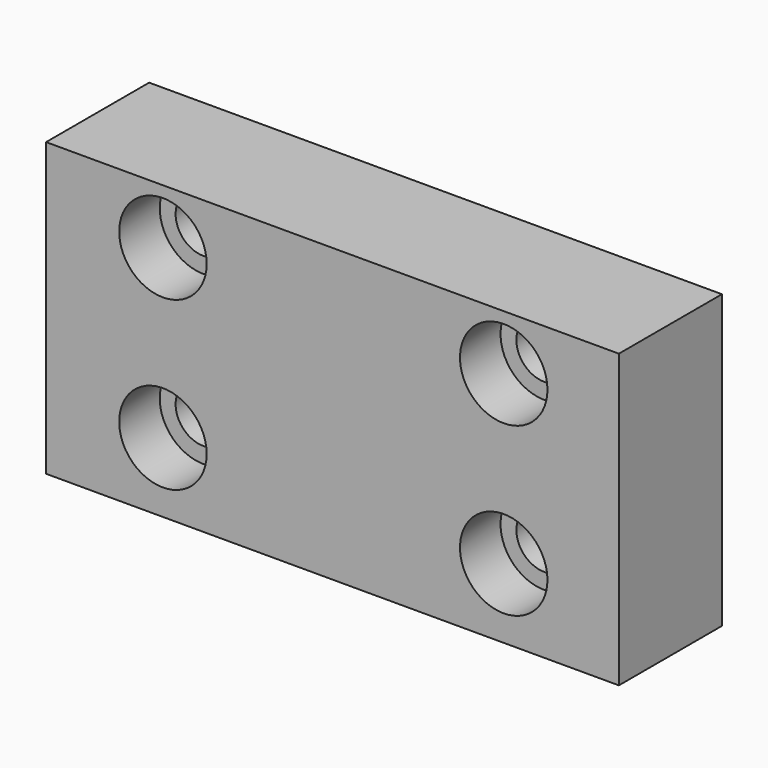
from build123d import *

# Parameters (mm, degrees)
F0_W           = 112.9552908242
F0_H           = 57.5850531459
F1_DEPTH       = 25.4
F3_D           = 11
F3_CBORE_D     = 17.25
F3_CBORE_DEPTH = 10


with BuildPart() as f1:
    # F0 (on Front) → F1 (new body)
    with BuildSketch(Plane.XZ):
        with Locations((8.3187203854, -6.5521448851)):
            Rectangle(F0_W, F0_H)
    extrude(amount=F1_DEPTH)

    # F3 (through all)
    with Locations(Plane.XZ.offset(25.4)):
        with Locations((-25.1178480685, 11.3974343985), (-25.1178480685, -21.604033187), (42.0870482922, 11.3974343985), (42.0870482922, -21.604033187)):
            CounterBoreHole(F3_D / 2, F3_CBORE_D / 2, F3_CBORE_DEPTH)


solid = f1.part
